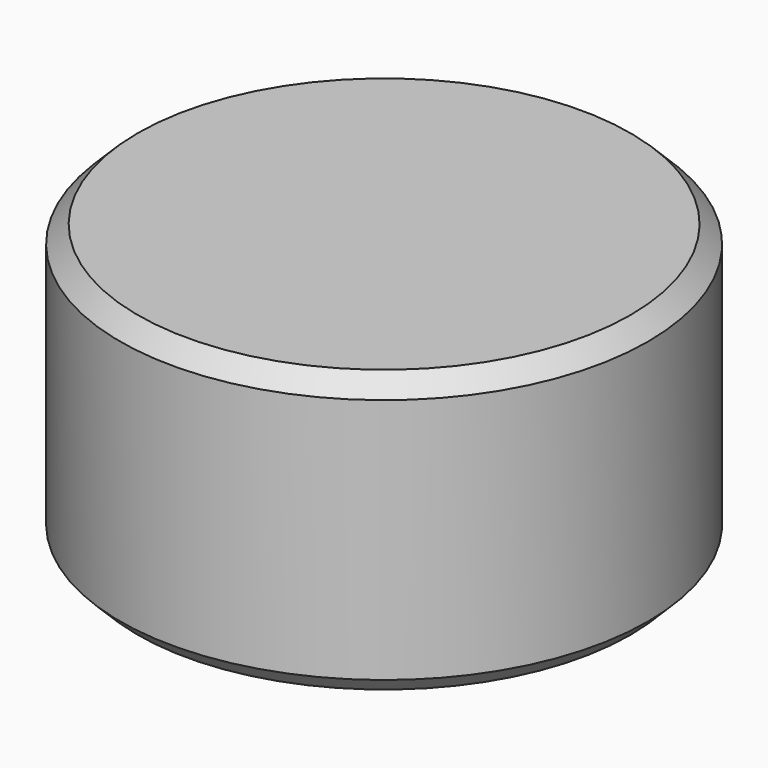
from build123d import *

# Parameters (mm, degrees)
CYLINDER024_R     = 30
CYLINDER024_DEPTH = 32
CHAMFER006_SIZE   = 2
CHAMFER007_SIZE   = 2


with BuildPart() as part:
    # Cylinder024 → Cylinder024 (join)
    with BuildSketch(Plane.XY.offset(-16)):
        Circle(CYLINDER024_R)
    extrude(amount=CYLINDER024_DEPTH)

    # Chamfer006
    chamfer006_edges = [part.edges().sort_by_distance(p)[0] for p in [
        (-30, 0, 16),
    ]]
    chamfer(chamfer006_edges, length=CHAMFER006_SIZE)

    # Chamfer007
    chamfer007_edges = [part.edges().sort_by_distance(p)[0] for p in [
        (-30, 0, -16),
    ]]
    chamfer(chamfer007_edges, length=CHAMFER007_SIZE)


solid = part.part
